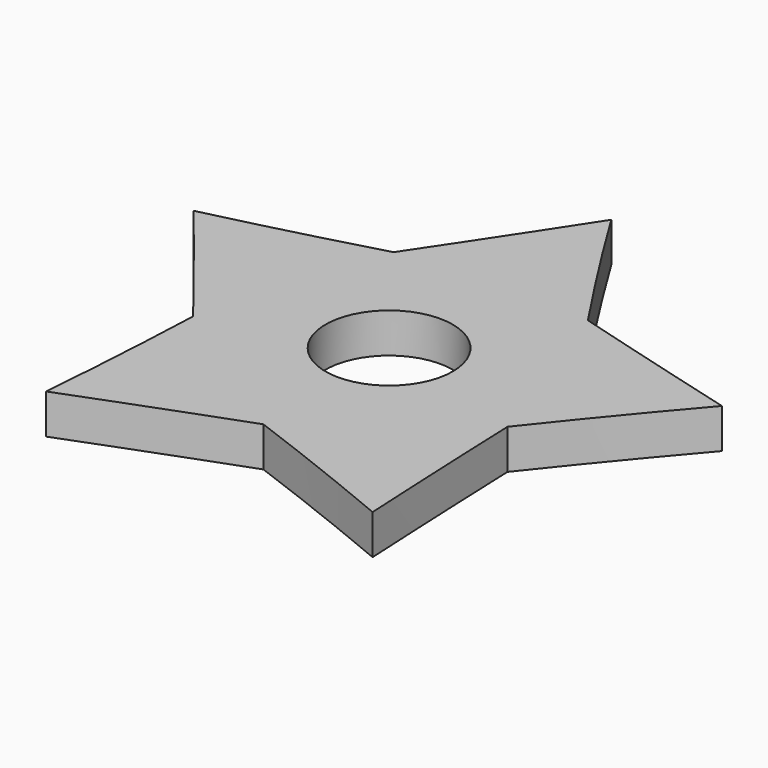
from build123d import *

# Parameters (mm, degrees)
F0_R     = 11.2
F1_DEPTH = 7


with BuildPart() as f1:
    # F0 (on Top) → F1 (new body)
    with BuildSketch(Plane.XY):
        with BuildLine():
            ThreePointArc((0, 48.90934), (-8.622128, 35.760107), (-17.34349, 22.676482))
            ThreePointArc((-17.34349, 22.676482), (-31.889544, 18.740952), (-46.515547, 15.113817))
            ThreePointArc((-46.515547, 15.113817), (-36.674267, 2.85035), (-26.926049, -9.487221))
            ThreePointArc((-26.926049, -9.487221), (-27.678115, -24.537486), (-28.748189, -39.568487))
            ThreePointArc((-28.748189, -39.568487), (-14.043816, -33.998494), (0.702277, -28.539907))
            ThreePointArc((0.702277, -28.539907), (14.783528, -33.905952), (28.748189, -39.568487))
            ThreePointArc((28.748189, -39.568487), (27.994711, -23.862575), (27.36008, -8.151411))
            ThreePointArc((27.36008, -8.151411), (36.814838, 3.582455), (46.515547, 15.113817))
            ThreePointArc((46.515547, 15.113817), (31.345499, 19.250612), (16.207183, 23.502058))
            ThreePointArc((16.207183, 23.502058), (7.969293, 36.120031), (0, 48.90934))
        make_face()
        Circle(F0_R, mode=Mode.SUBTRACT)
    extrude(amount=F1_DEPTH)


solid = f1.part
